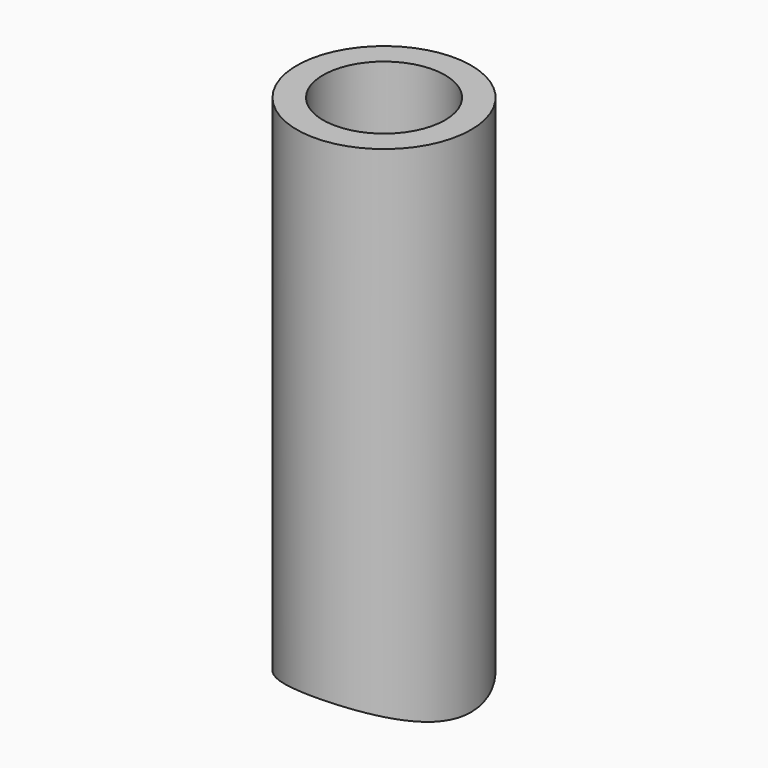
from build123d import *

# Parameters (mm, degrees)
SKETCH_R          = 10
PAD_DEPTH         = 60
CYLINDER_R        = 7
CYLINDER_DEPTH    = 70
CYLINDER001_R     = 22.5
CYLINDER001_DEPTH = 25


with BuildPart() as part:
    # Sketch → Pad (new body)
    with BuildSketch(Plane.XY):
        Circle(SKETCH_R)
    extrude(amount=PAD_DEPTH)

    # Cylinder → Cylinder (cut)
    with BuildSketch(Plane.XY.offset(-6)):
        Circle(CYLINDER_R)
    extrude(amount=CYLINDER_DEPTH, mode=Mode.SUBTRACT)

    # Cylinder001 → Cylinder001 (cut)
    with BuildSketch(Plane(origin=(0, 12, -19), x_dir=(1, 0, 0), z_dir=(0, -1, 0))):
        Circle(CYLINDER001_R)
    extrude(amount=CYLINDER001_DEPTH, mode=Mode.SUBTRACT)


solid = part.part
